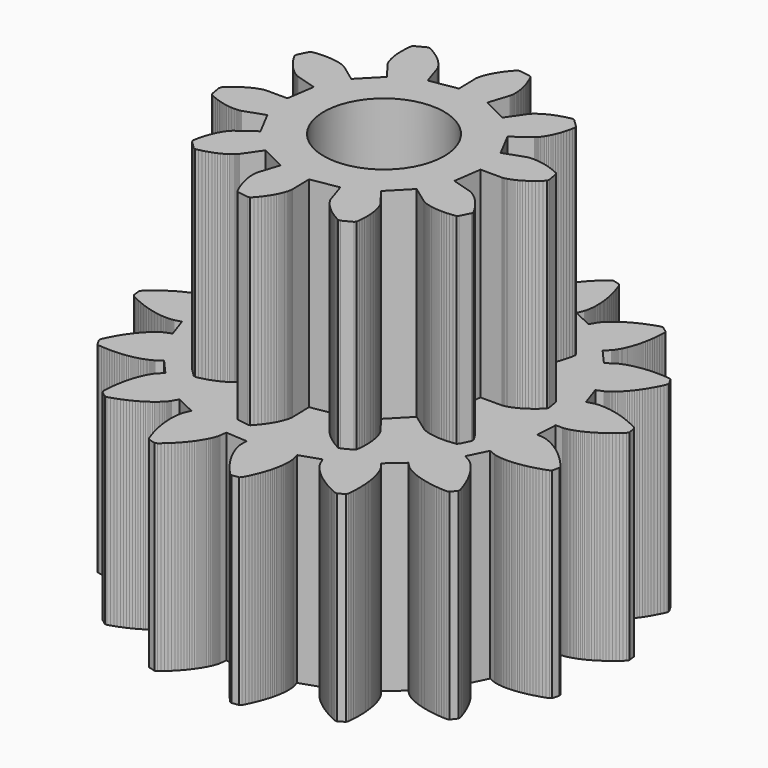
from build123d import *

# Parameters (mm, degrees)
F1_DEPTH = 10
F2_R     = 7.5
F3_DEPTH = 5.5
F5_DEPTH = 10
F6_R     = 3
F7_DEPTH = 20.001


with BuildPart() as f1:
    # F0 (on Top) → F1 (new body)
    with BuildSketch(Plane.XY):
        Polygon((8.496053, -1.064742), (8.562513, 0), (8.911433, 2e-05), (8.916954, 0.00018), (8.926694, 0.00068), (8.940654, 0.0017), (8.958794, 0.0034), (8.981134, 0.006), (9.007594, 0.00968), (9.038154, 0.0146), (9.072774, 0.02094), (9.111414, 0.0289), (9.153994, 0.03864), (9.200454, 0.05034), (9.250754, 0.06418), (9.304794, 0.08032), (9.362514, 0.09894), (9.423814, 0.1202), (9.488595, 0.14428), (9.556795, 0.17132), (9.628295, 0.2015), (9.702995, 0.23496), (9.780775, 0.27186), (9.861515, 0.31234), (9.945115, 0.35656), (10.031435, 0.40466), (10.120336, 0.45678), (10.211695, 0.51304), (10.305356, 0.573601), (10.401196, 0.638561), (10.499036, 0.708041), (10.598756, 0.782181), (10.700177, 0.861061), (10.803157, 0.944841), (10.907497, 1.033561), (11.013057, 1.127381), (11.119657, 1.226362), (11.171837, 1.324042), (11.123597, 1.681862), (11.047397, 1.762222), (10.918397, 1.829442), (10.791777, 1.891942), (10.667656, 1.949883), (10.546176, 2.003383), (10.427476, 2.052603), (10.311696, 2.097683), (10.198935, 2.138783), (10.089315, 2.176043), (9.982955, 2.209623), (9.879955, 2.239683), (9.780435, 2.266383), (9.684455, 2.289903), (9.592135, 2.310423), (9.503555, 2.328083), (9.418774, 2.343063), (9.337894, 2.355543), (9.260954, 2.365703), (9.188034, 2.373723), (9.119174, 2.379783), (9.054414, 2.384043), (8.993834, 2.386723), (8.937453, 2.387983), (8.885293, 2.388003), (8.837373, 2.386983), (8.793734, 2.385103), (8.754374, 2.382543), (8.719313, 2.379483), (8.688533, 2.376143), (8.662053, 2.372663), (8.639833, 2.369263), (8.621873, 2.366103), (8.608153, 2.363383), (8.598613, 2.361283), (8.593253, 2.359983), (8.256793, 2.267603), (7.910732, 3.276725), (8.233093, 3.410265), (8.238112, 3.412525), (8.246933, 3.416725), (8.259433, 3.423005), (8.275553, 3.431525), (8.295173, 3.442485), (8.318232, 3.455985), (8.344573, 3.472225), (8.374133, 3.491345), (8.406793, 3.513485), (8.442393, 3.538765), (8.480853, 3.567365), (8.522013, 3.599405), (8.565773, 3.634985), (8.611973, 3.674285), (8.660453, 3.717385), (8.711113, 3.764425), (8.763774, 3.815505), (8.818274, 3.870746), (8.874493, 3.930246), (8.932233, 3.994106), (8.991334, 4.062406), (9.051634, 4.135266), (9.112974, 4.212726), (9.175174, 4.294886), (9.238034, 4.381846), (9.301394, 4.473626), (9.365074, 4.570307), (9.428895, 4.671947), (9.492654, 4.778607), (9.556175, 4.890307), (9.619235, 5.007107), (9.681695, 5.129008), (9.743315, 5.256088), (9.803915, 5.388308), (9.814735, 5.498528), (9.633235, 5.810648), (9.532095, 5.855749), (9.387195, 5.868469), (9.246274, 5.877769), (9.109434, 5.883789), (8.976733, 5.886729), (8.848234, 5.886789), (8.724013, 5.884129), (8.604113, 5.878929), (8.488573, 5.871409), (8.377473, 5.861729), (8.270813, 5.850089), (8.168633, 5.836688), (8.070973, 5.821689), (7.977832, 5.805309), (7.889232, 5.787708), (7.805172, 5.769109), (7.725652, 5.749688), (7.650691, 5.729648), (7.580251, 5.709148), (7.514311, 5.688388), (7.452851, 5.667548), (7.395872, 5.646828), (7.343291, 5.626428), (7.295091, 5.606488), (7.251211, 5.587208), (7.211611, 5.568768), (7.176231, 5.551328), (7.145011, 5.535108), (7.117851, 5.520228), (7.094711, 5.506888), (7.075491, 5.495228), (7.060111, 5.485448), (7.048451, 5.477688), (7.040471, 5.472088), (7.036011, 5.468848), (6.760511, 5.254728), (6.054609, 6.054609), (6.30133, 6.301349), (6.305109, 6.305369), (6.31165, 6.312609), (6.32079, 6.323189), (6.33241, 6.337229), (6.34637, 6.354869), (6.36249, 6.376169), (6.38063, 6.401249), (6.400609, 6.43023), (6.42231, 6.463169), (6.44553, 6.50017), (6.47011, 6.54129), (6.49589, 6.58665), (6.52269, 6.63627), (6.55033, 6.69025), (6.57863, 6.74863), (6.60743, 6.81147), (6.63653, 6.87883), (6.66575, 6.950711), (6.69491, 7.02719), (6.72383, 7.108291), (6.75229, 7.194011), (6.78013, 7.284391), (6.807151, 7.379431), (6.83317, 7.479151), (6.85797, 7.583531), (6.88139, 7.692571), (6.903231, 7.806271), (6.923291, 7.924612), (6.94137, 8.047532), (6.95731, 8.175032), (6.970891, 8.307073), (6.981931, 8.443612), (6.990231, 8.584593), (6.995611, 8.729953), (6.963451, 8.835913), (6.67631, 9.054813), (6.56561, 9.057773), (6.42687, 9.014093), (6.293129, 8.968753), (6.164389, 8.921953), (6.040669, 8.873873), (5.921929, 8.824753), (5.808169, 8.774753), (5.699389, 8.724073), (5.595529, 8.672913), (5.496589, 8.621453), (5.402488, 8.569873), (5.313228, 8.518393), (5.228728, 8.467153), (5.148948, 8.416372), (5.073828, 8.366233), (5.003288, 8.316873), (4.937268, 8.268512), (4.875667, 8.221292), (4.818447, 8.175392), (4.765467, 8.130992), (4.716667, 8.088232), (4.671927, 8.047272), (4.631167, 8.008292), (4.594267, 7.971412), (4.561127, 7.936811), (4.531587, 7.904632), (4.505567, 7.874992), (4.482927, 7.848032), (4.463547, 7.823911), (4.447267, 7.802712), (4.433967, 7.784612), (4.423487, 7.769672), (4.415707, 7.758051), (4.410467, 7.749831), (4.407587, 7.745111), (4.235006, 7.441871), (3.276725, 7.910732), (3.410245, 8.233093), (3.412205, 8.238252), (3.415465, 8.247453), (3.419865, 8.260732), (3.425245, 8.278153), (3.431385, 8.299772), (3.438125, 8.325633), (3.445265, 8.355753), (3.452665, 8.390173), (3.460085, 8.428893), (3.467385, 8.471972), (3.474365, 8.519373), (3.480825, 8.571132), (3.486585, 8.627233), (3.491465, 8.687693), (3.495285, 8.752453), (3.497825, 8.821533), (3.498945, 8.894893), (3.498425, 8.972493), (3.496105, 9.054313), (3.491785, 9.140294), (3.485265, 9.230394), (3.476405, 9.324534), (3.465005, 9.422694), (3.450865, 9.524774), (3.433845, 9.630694), (3.413745, 9.740414), (3.390425, 9.853815), (3.363665, 9.970815), (3.333345, 10.091295), (3.299265, 10.215195), (3.261285, 10.342375), (3.219225, 10.472756), (3.172945, 10.606176), (3.122305, 10.742516), (3.052025, 10.828116), (2.702984, 10.920476), (2.599564, 10.880857), (2.488104, 10.787396), (2.381904, 10.694316), (2.280883, 10.601816), (2.184963, 10.510056), (2.094063, 10.419236), (2.008103, 10.329515), (1.926983, 10.241055), (1.850623, 10.154035), (1.778903, 10.068635), (1.711703, 9.984975), (1.648943, 9.903255), (1.590482, 9.823595), (1.536202, 9.746134), (1.485982, 9.671055), (1.439702, 9.598474), (1.397222, 9.528515), (1.358382, 9.461314), (1.323062, 9.397014), (1.291122, 9.335714), (1.262402, 9.277534), (1.236742, 9.222574), (1.214002, 9.170974), (1.194022, 9.122793), (1.176642, 9.078133), (1.161682, 9.037093), (1.148982, 8.999753), (1.138382, 8.966193), (1.129702, 8.936473), (1.122762, 8.910673), (1.117402, 8.888833), (1.113442, 8.871033), (1.110702, 8.857313), (1.109002, 8.847713), (1.108162, 8.842273), (1.064742, 8.496053), (0, 8.562513), (-2e-05, 8.911433), (-0.00018, 8.916954), (-0.00068, 8.926693), (-0.0017, 8.940654), (-0.0034, 8.958793), (-0.006, 8.981134), (-0.00968, 9.007593), (-0.0146, 9.038154), (-0.02094, 9.072774), (-0.0289, 9.111413), (-0.03864, 9.153994), (-0.05034, 9.200454), (-0.06418, 9.250754), (-0.08032, 9.304794), (-0.09894, 9.362514), (-0.1202, 9.423814), (-0.14428, 9.488594), (-0.17132, 9.556794), (-0.2015, 9.628294), (-0.23496, 9.702995), (-0.27186, 9.780775), (-0.31234, 9.861515), (-0.356561, 9.945114), (-0.404661, 10.031435), (-0.456781, 10.120335), (-0.513041, 10.211695), (-0.573601, 10.305355), (-0.638561, 10.401196), (-0.708041, 10.499035), (-0.782181, 10.598755), (-0.861061, 10.700176), (-0.944841, 10.803156), (-1.033562, 10.907496), (-1.127382, 11.013057), (-1.226362, 11.119657), (-1.324042, 11.171837), (-1.681863, 11.123597), (-1.762223, 11.047397), (-1.829443, 10.918396), (-1.891943, 10.791776), (-1.949883, 10.667656), (-2.003383, 10.546176), (-2.052603, 10.427475), (-2.097683, 10.311695), (-2.138783, 10.198935), (-2.176043, 10.089315), (-2.209623, 9.982955), (-2.239683, 9.879955), (-2.266383, 9.780435), (-2.289904, 9.684454), (-2.310424, 9.592135), (-2.328084, 9.503554), (-2.343064, 9.418774), (-2.355544, 9.337894), (-2.365704, 9.260954), (-2.373724, 9.188034), (-2.379784, 9.119173), (-2.384044, 9.054413), (-2.386724, 8.993834), (-2.387984, 8.937453), (-2.388004, 8.885293), (-2.386984, 8.837373), (-2.385104, 8.793733), (-2.382544, 8.754373), (-2.379484, 8.719313), (-2.376144, 8.688533), (-2.372664, 8.662053), (-2.369264, 8.639833), (-2.366104, 8.621873), (-2.363384, 8.608153), (-2.361284, 8.598613), (-2.359984, 8.593253), (-2.267604, 8.256793), (-3.276725, 7.910732), (-3.410265, 8.233093), (-3.412525, 8.238112), (-3.416725, 8.246932), (-3.423005, 8.259432), (-3.431525, 8.275552), (-3.442485, 8.295172), (-3.455985, 8.318232), (-3.472225, 8.344573), (-3.491345, 8.374133), (-3.513485, 8.406793), (-3.538765, 8.442392), (-3.567365, 8.480853), (-3.599405, 8.522013), (-3.634986, 8.565773), (-3.674286, 8.611973), (-3.717386, 8.660453), (-3.764426, 8.711113), (-3.815506, 8.763773), (-3.870746, 8.818273), (-3.930246, 8.874493), (-3.994106, 8.932233), (-4.062406, 8.991333), (-4.135266, 9.051633), (-4.212727, 9.112974), (-4.294886, 9.175174), (-4.381847, 9.238034), (-4.473627, 9.301394), (-4.570307, 9.365074), (-4.671947, 9.428894), (-4.778607, 9.492654), (-4.890307, 9.556174), (-5.007108, 9.619234), (-5.129008, 9.681695), (-5.256088, 9.743314), (-5.388308, 9.803915), (-5.498528, 9.814735), (-5.810649, 9.633234), (-5.855749, 9.532094), (-5.868469, 9.387194), (-5.877769, 9.246274), (-5.883789, 9.109434), (-5.886729, 8.976733), (-5.886789, 8.848233), (-5.884129, 8.724013), (-5.878929, 8.604113), (-5.871409, 8.488572), (-5.861729, 8.377472), (-5.850089, 8.270812), (-5.836689, 8.168632), (-5.821689, 8.070972), (-5.805309, 7.977832), (-5.787709, 7.889231), (-5.769109, 7.805171), (-5.749689, 7.725652), (-5.729649, 7.650691), (-5.709149, 7.580251), (-5.688389, 7.514311), (-5.667549, 7.452851), (-5.646829, 7.395871), (-5.626428, 7.343291), (-5.606489, 7.295091), (-5.587209, 7.251211), (-5.568768, 7.21161), (-5.551328, 7.176231), (-5.535109, 7.14501), (-5.520229, 7.11785), (-5.506889, 7.09471), (-5.495229, 7.07549), (-5.485448, 7.06011), (-5.477688, 7.04845), (-5.472088, 7.040471), (-5.468848, 7.03601), (-5.254728, 6.76051), (-6.054609, 6.054609), (-6.30135, 6.301329), (-6.30537, 6.305109), (-6.31261, 6.311649), (-6.32319, 6.320789), (-6.33723, 6.332409), (-6.35487, 6.346369), (-6.37617, 6.36249), (-6.40125, 6.380629), (-6.43023, 6.400609), (-6.46317, 6.422309), (-6.50017, 6.44553), (-6.54129, 6.470109), (-6.58665, 6.49589), (-6.63627, 6.52269), (-6.69025, 6.550329), (-6.74863, 6.57863), (-6.811471, 6.60743), (-6.878831, 6.636529), (-6.950711, 6.66575), (-7.02719, 6.69491), (-7.108291, 6.72383), (-7.194011, 6.75229), (-7.284391, 6.78013), (-7.379431, 6.80715), (-7.479151, 6.83317), (-7.583531, 6.85797), (-7.692572, 6.88139), (-7.806272, 6.903231), (-7.924612, 6.923291), (-8.047532, 6.94137), (-8.175032, 6.95731), (-8.307073, 6.97089), (-8.443613, 6.98193), (-8.584593, 6.99023), (-8.729953, 6.99561), (-8.835914, 6.96345), (-9.054813, 6.67631), (-9.057774, 6.56561), (-9.014094, 6.42687), (-8.968754, 6.293129), (-8.921953, 6.164389), (-8.873874, 6.040669), (-8.824753, 5.921929), (-8.774753, 5.808169), (-8.724073, 5.699388), (-8.672913, 5.595528), (-8.621453, 5.496588), (-8.569873, 5.402488), (-8.518393, 5.313228), (-8.467153, 5.228728), (-8.416373, 5.148947), (-8.366233, 5.073828), (-8.316873, 5.003287), (-8.268512, 4.937267), (-8.221292, 4.875667), (-8.175392, 4.818447), (-8.130992, 4.765467), (-8.088233, 4.716667), (-8.047273, 4.671927), (-8.008292, 4.631167), (-7.971412, 4.594267), (-7.936812, 4.561126), (-7.904632, 4.531587), (-7.874992, 4.505566), (-7.848032, 4.482927), (-7.823912, 4.463546), (-7.802712, 4.447266), (-7.784612, 4.433966), (-7.769672, 4.423486), (-7.758052, 4.415707), (-7.749832, 4.410466), (-7.745111, 4.407587), (-7.441872, 4.235006), (-7.910732, 3.276725), (-8.233093, 3.410245), (-8.238253, 3.412205), (-8.247453, 3.415465), (-8.260733, 3.419865), (-8.278153, 3.425245), (-8.299772, 3.431385), (-8.325633, 3.438125), (-8.355753, 3.445265), (-8.390173, 3.452665), (-8.428893, 3.460085), (-8.471973, 3.467385), (-8.519373, 3.474365), (-8.571133, 3.480825), (-8.627233, 3.486585), (-8.687693, 3.491465), (-8.752453, 3.495285), (-8.821534, 3.497825), (-8.894894, 3.498945), (-8.972494, 3.498425), (-9.054314, 3.496105), (-9.140294, 3.491785), (-9.230394, 3.485265), (-9.324534, 3.476405), (-9.422694, 3.465005), (-9.524774, 3.450865), (-9.630695, 3.433845), (-9.740415, 3.413745), (-9.853815, 3.390425), (-9.970815, 3.363665), (-10.091296, 3.333345), (-10.215196, 3.299265), (-10.342376, 3.261285), (-10.472756, 3.219225), (-10.606176, 3.172945), (-10.742517, 3.122304), (-10.828116, 3.052024), (-10.920476, 2.702984), (-10.880857, 2.599564), (-10.787397, 2.488104), (-10.694316, 2.381903), (-10.601816, 2.280883), (-10.510056, 2.184963), (-10.419236, 2.094063), (-10.329516, 2.008103), (-10.241056, 1.926983), (-10.154035, 1.850623), (-10.068636, 1.778902), (-9.984975, 1.711702), (-9.903255, 1.648942), (-9.823595, 1.590482), (-9.746135, 1.536202), (-9.671055, 1.485982), (-9.598474, 1.439702), (-9.528515, 1.397222), (-9.461314, 1.358382), (-9.397014, 1.323062), (-9.335714, 1.291122), (-9.277534, 1.262402), (-9.222574, 1.236742), (-9.170974, 1.214002), (-9.122794, 1.194021), (-9.078134, 1.176641), (-9.037093, 1.161681), (-8.999754, 1.148981), (-8.966193, 1.138381), (-8.936474, 1.129701), (-8.910673, 1.122761), (-8.888833, 1.117401), (-8.871033, 1.113441), (-8.857313, 1.110701), (-8.847713, 1.109001), (-8.842273, 1.108161), (-8.496053, 1.064741), (-8.562513, 0), (-8.911433, -2e-05), (-8.916954, -0.00018), (-8.926694, -0.00068), (-8.940654, -0.0017), (-8.958794, -0.0034), (-8.981134, -0.006), (-9.007594, -0.00968), (-9.038154, -0.0146), (-9.072774, -0.02094), (-9.111414, -0.0289), (-9.153994, -0.03864), (-9.200454, -0.05034), (-9.250754, -0.06418), (-9.304794, -0.08032), (-9.362514, -0.09894), (-9.423814, -0.120201), (-9.488595, -0.144281), (-9.556795, -0.171321), (-9.628295, -0.201501), (-9.702995, -0.234961), (-9.780775, -0.271861), (-9.861515, -0.312341), (-9.945115, -0.356561), (-10.031435, -0.404661), (-10.120336, -0.456781), (-10.211695, -0.513041), (-10.305356, -0.573601), (-10.401196, -0.638561), (-10.499036, -0.708041), (-10.598756, -0.782182), (-10.700177, -0.861062), (-10.803157, -0.944842), (-10.907497, -1.033562), (-11.013057, -1.127382), (-11.119657, -1.226362), (-11.171837, -1.324042), (-11.123597, -1.681863), (-11.047397, -1.762223), (-10.918397, -1.829443), (-10.791777, -1.891943), (-10.667656, -1.949883), (-10.546176, -2.003383), (-10.427476, -2.052603), (-10.311696, -2.097684), (-10.198935, -2.138784), (-10.089315, -2.176044), (-9.982955, -2.209624), (-9.879955, -2.239684), (-9.780435, -2.266384), (-9.684455, -2.289904), (-9.592135, -2.310424), (-9.503555, -2.328084), (-9.418774, -2.343064), (-9.337894, -2.355544), (-9.260954, -2.365704), (-9.188034, -2.373724), (-9.119174, -2.379784), (-9.054414, -2.384044), (-8.993834, -2.386724), (-8.937453, -2.387984), (-8.885293, -2.388004), (-8.837373, -2.386984), (-8.793734, -2.385104), (-8.754374, -2.382544), (-8.719313, -2.379484), (-8.688533, -2.376144), (-8.662053, -2.372664), (-8.639833, -2.369264), (-8.621873, -2.366104), (-8.608153, -2.363384), (-8.598613, -2.361284), (-8.593253, -2.359984), (-8.256793, -2.267604), (-7.910732, -3.276725), (-8.233093, -3.410266), (-8.238112, -3.412525), (-8.246933, -3.416725), (-8.259433, -3.423006), (-8.275553, -3.431526), (-8.295173, -3.442486), (-8.318232, -3.455986), (-8.344573, -3.472225), (-8.374133, -3.491346), (-8.406793, -3.513486), (-8.442393, -3.538766), (-8.480853, -3.567366), (-8.522013, -3.599406), (-8.565773, -3.634986), (-8.611973, -3.674286), (-8.660453, -3.717386), (-8.711113, -3.764426), (-8.763774, -3.815506), (-8.818274, -3.870746), (-8.874493, -3.930246), (-8.932233, -3.994107), (-8.991334, -4.062407), (-9.051634, -4.135267), (-9.112974, -4.212727), (-9.175174, -4.294887), (-9.238034, -4.381847), (-9.301394, -4.473627), (-9.365074, -4.570307), (-9.428895, -4.671947), (-9.492654, -4.778608), (-9.556175, -4.890308), (-9.619235, -5.007108), (-9.681695, -5.129008), (-9.743315, -5.256088), (-9.803915, -5.388309), (-9.814735, -5.498529), (-9.633235, -5.810649), (-9.532095, -5.855749), (-9.387195, -5.868469), (-9.246274, -5.877769), (-9.109434, -5.883789), (-8.976733, -5.886729), (-8.848234, -5.88679), (-8.724013, -5.88413), (-8.604113, -5.878929), (-8.488573, -5.871409), (-8.377473, -5.861729), (-8.270813, -5.850089), (-8.168633, -5.836689), (-8.070973, -5.821689), (-7.977832, -5.805309), (-7.889232, -5.787709), (-7.805172, -5.769109), (-7.725652, -5.749689), (-7.650691, -5.729649), (-7.580251, -5.709149), (-7.514311, -5.688389), (-7.452851, -5.667549), (-7.395872, -5.646829), (-7.343291, -5.626429), (-7.295091, -5.606489), (-7.251211, -5.587209), (-7.211611, -5.568769), (-7.176231, -5.551329), (-7.145011, -5.535109), (-7.117851, -5.520229), (-7.094711, -5.506889), (-7.075491, -5.495229), (-7.060111, -5.485449), (-7.048451, -5.477689), (-7.040471, -5.472089), (-7.036011, -5.468849), (-6.760511, -5.254728), (-6.054609, -6.05461), (-6.30133, -6.30135), (-6.305109, -6.30537), (-6.31165, -6.31261), (-6.32079, -6.32319), (-6.33241, -6.33723), (-6.34637, -6.35487), (-6.36249, -6.37617), (-6.38063, -6.40125), (-6.400609, -6.43023), (-6.42231, -6.46317), (-6.44553, -6.50017), (-6.47011, -6.541291), (-6.49589, -6.586651), (-6.52269, -6.636271), (-6.55033, -6.69025), (-6.57863, -6.74863), (-6.60743, -6.811471), (-6.63653, -6.878831), (-6.66575, -6.950711), (-6.69491, -7.027191), (-6.72383, -7.108291), (-6.75229, -7.194012), (-6.78013, -7.284392), (-6.807151, -7.379431), (-6.83317, -7.479151), (-6.85797, -7.583532), (-6.88139, -7.692572), (-6.903231, -7.806272), (-6.923291, -7.924613), (-6.94137, -8.047532), (-6.95731, -8.175033), (-6.970891, -8.307073), (-6.981931, -8.443613), (-6.990231, -8.584594), (-6.995611, -8.729954), (-6.963451, -8.835914), (-6.67631, -9.054814), (-6.56561, -9.057774), (-6.42687, -9.014094), (-6.293129, -8.968754), (-6.164389, -8.921954), (-6.040669, -8.873874), (-5.921929, -8.824754), (-5.808169, -8.774754), (-5.699389, -8.724074), (-5.595529, -8.672913), (-5.496589, -8.621454), (-5.402488, -8.569874), (-5.313228, -8.518393), (-5.228728, -8.467153), (-5.148948, -8.416373), (-5.073828, -8.366233), (-5.003288, -8.316873), (-4.937268, -8.268513), (-4.875667, -8.221293), (-4.818447, -8.175393), (-4.765467, -8.130993), (-4.716667, -8.088233), (-4.671927, -8.047273), (-4.631167, -8.008293), (-4.594267, -7.971412), (-4.561127, -7.936812), (-4.531587, -7.904633), (-4.505567, -7.874993), (-4.482927, -7.848033), (-4.463547, -7.823912), (-4.447267, -7.802712), (-4.433967, -7.784612), (-4.423487, -7.769672), (-4.415707, -7.758052), (-4.410467, -7.749832), (-4.407587, -7.745112), (-4.235006, -7.441872), (-3.276725, -7.910732), (-3.410245, -8.233093), (-3.412205, -8.238253), (-3.415465, -8.247453), (-3.419865, -8.260733), (-3.425245, -8.278153), (-3.431385, -8.299773), (-3.438125, -8.325633), (-3.445265, -8.355753), (-3.452665, -8.390174), (-3.460085, -8.428894), (-3.467385, -8.471973), (-3.474365, -8.519374), (-3.480825, -8.571133), (-3.486585, -8.627234), (-3.491465, -8.687694), (-3.495285, -8.752454), (-3.497825, -8.821534), (-3.498945, -8.894894), (-3.498425, -8.972494), (-3.496105, -9.054314), (-3.491785, -9.140294), (-3.485265, -9.230395), (-3.476405, -9.324535), (-3.465005, -9.422695), (-3.450865, -9.524775), (-3.433845, -9.630695), (-3.413745, -9.740415), (-3.390425, -9.853816), (-3.363665, -9.970816), (-3.333345, -10.091296), (-3.299265, -10.215196), (-3.261285, -10.342376), (-3.219225, -10.472757), (-3.172945, -10.606177), (-3.122305, -10.742517), (-3.052025, -10.828117), (-2.702984, -10.920477), (-2.599564, -10.880857), (-2.488104, -10.787397), (-2.381904, -10.694317), (-2.280883, -10.601816), (-2.184963, -10.510057), (-2.094063, -10.419236), (-2.008103, -10.329516), (-1.926983, -10.241056), (-1.850623, -10.154036), (-1.778903, -10.068636), (-1.711703, -9.984976), (-1.648943, -9.903256), (-1.590482, -9.823596), (-1.536202, -9.746135), (-1.485982, -9.671055), (-1.439702, -9.598475), (-1.397222, -9.528515), (-1.358382, -9.461315), (-1.323062, -9.397015), (-1.291122, -9.335715), (-1.262402, -9.277535), (-1.236742, -9.222575), (-1.214002, -9.170975), (-1.194022, -9.122794), (-1.176642, -9.078134), (-1.161682, -9.037094), (-1.148982, -8.999754), (-1.138382, -8.966194), (-1.129702, -8.936474), (-1.122762, -8.910674), (-1.117402, -8.888834), (-1.113442, -8.871034), (-1.110702, -8.857314), (-1.109002, -8.847714), (-1.108162, -8.842274), (-1.064742, -8.496054), (0, -8.562513), (2e-05, -8.911434), (0.00018, -8.916954), (0.00068, -8.926694), (0.0017, -8.940654), (0.0034, -8.958794), (0.006, -8.981134), (0.00968, -9.007594), (0.0146, -9.038154), (0.02094, -9.072774), (0.0289, -9.111414), (0.03864, -9.153995), (0.05034, -9.200455), (0.06418, -9.250755), (0.08032, -9.304794), (0.09894, -9.362515), (0.1202, -9.423815), (0.14428, -9.488595), (0.17132, -9.556795), (0.2015, -9.628295), (0.23496, -9.702995), (0.27186, -9.780775), (0.31234, -9.861515), (0.356561, -9.945115), (0.404661, -10.031436), (0.456781, -10.120336), (0.513041, -10.211696), (0.573601, -10.305356), (0.638561, -10.401196), (0.708041, -10.499036), (0.782181, -10.598756), (0.861061, -10.700177), (0.944841, -10.803157), (1.033562, -10.907497), (1.127382, -11.013057), (1.226362, -11.119658), (1.324042, -11.171837), (1.681863, -11.123598), (1.762223, -11.047397), (1.829443, -10.918397), (1.891943, -10.791777), (1.949883, -10.667657), (2.003383, -10.546177), (2.052603, -10.427476), (2.097683, -10.311696), (2.138783, -10.198936), (2.176043, -10.089316), (2.209623, -9.982956), (2.239683, -9.879955), (2.266383, -9.780435), (2.289904, -9.684455), (2.310424, -9.592135), (2.328084, -9.503555), (2.343064, -9.418775), (2.355544, -9.337895), (2.365704, -9.260954), (2.373724, -9.188035), (2.379784, -9.119174), (2.384044, -9.054414), (2.386724, -8.993834), (2.387984, -8.937454), (2.388004, -8.885294), (2.386984, -8.837373), (2.385104, -8.793734), (2.382544, -8.754374), (2.379484, -8.719314), (2.376144, -8.688534), (2.372664, -8.662054), (2.369264, -8.639834), (2.366104, -8.621873), (2.363384, -8.608153), (2.361284, -8.598613), (2.359984, -8.593254), (2.267604, -8.256793), (3.276725, -7.910732), (3.410265, -8.233093), (3.412525, -8.238113), (3.416725, -8.246933), (3.423005, -8.259433), (3.431525, -8.275553), (3.442485, -8.295173), (3.455985, -8.318233), (3.472225, -8.344573), (3.491345, -8.374133), (3.513485, -8.406793), (3.538765, -8.442393), (3.567365, -8.480854), (3.599405, -8.522013), (3.634986, -8.565773), (3.674286, -8.611973), (3.717386, -8.660454), (3.764426, -8.711114), (3.815506, -8.763774), (3.870746, -8.818274), (3.930246, -8.874494), (3.994106, -8.932234), (4.062406, -8.991334), (4.135266, -9.051634), (4.212727, -9.112974), (4.294886, -9.175175), (4.381847, -9.238035), (4.473627, -9.301395), (4.570307, -9.365074), (4.671947, -9.428895), (4.778607, -9.492655), (4.890307, -9.556175), (5.007108, -9.619235), (5.129008, -9.681695), (5.256088, -9.743315), (5.388308, -9.803915), (5.498528, -9.814735), (5.810649, -9.633235), (5.855749, -9.532095), (5.868469, -9.387195), (5.877769, -9.246275), (5.883789, -9.109434), (5.886729, -8.976734), (5.886789, -8.848234), (5.884129, -8.724013), (5.878929, -8.604114), (5.871409, -8.488573), (5.861729, -8.377473), (5.850089, -8.270813), (5.836689, -8.168633), (5.821689, -8.070973), (5.805309, -7.977832), (5.787709, -7.889232), (5.769109, -7.805172), (5.749689, -7.725652), (5.729649, -7.650692), (5.709149, -7.580252), (5.688389, -7.514312), (5.667549, -7.452851), (5.646829, -7.395872), (5.626428, -7.343292), (5.606489, -7.295091), (5.587209, -7.251212), (5.568768, -7.211611), (5.551328, -7.176231), (5.535109, -7.145011), (5.520229, -7.117851), (5.506889, -7.094711), (5.495229, -7.075491), (5.485448, -7.060111), (5.477688, -7.048451), (5.472088, -7.040471), (5.468848, -7.036011), (5.254728, -6.760511), (6.054609, -6.05461), (6.30135, -6.30133), (6.30537, -6.30511), (6.31261, -6.31165), (6.32319, -6.32079), (6.33723, -6.33241), (6.35487, -6.34637), (6.37617, -6.36249), (6.40125, -6.38063), (6.43023, -6.40061), (6.46317, -6.42231), (6.50017, -6.44553), (6.54129, -6.47011), (6.58665, -6.49589), (6.63627, -6.52269), (6.69025, -6.55033), (6.74863, -6.578631), (6.811471, -6.607431), (6.878831, -6.63653), (6.950711, -6.665751), (7.02719, -6.69491), (7.108291, -6.72383), (7.194011, -6.75229), (7.284391, -6.780131), (7.379431, -6.807151), (7.479151, -6.83317), (7.583531, -6.857971), (7.692572, -6.881391), (7.806272, -6.903231), (7.924612, -6.923291), (8.047532, -6.941371), (8.175032, -6.957311), (8.307073, -6.970891), (8.443613, -6.981931), (8.584593, -6.990231), (8.729953, -6.995611), (8.835914, -6.963451), (9.054813, -6.676311), (9.057774, -6.56561), (9.014094, -6.42687), (8.968754, -6.29313), (8.921953, -6.16439), (8.873874, -6.04067), (8.824753, -5.921929), (8.774753, -5.808169), (8.724073, -5.699389), (8.672913, -5.595529), (8.621453, -5.496589), (8.569873, -5.402489), (8.518393, -5.313228), (8.467153, -5.228728), (8.416373, -5.148948), (8.366233, -5.073828), (8.316873, -5.003288), (8.268512, -4.937268), (8.221292, -4.875668), (8.175392, -4.818448), (8.130992, -4.765467), (8.088233, -4.716667), (8.047273, -4.671927), (8.008292, -4.631167), (7.971412, -4.594267), (7.936812, -4.561127), (7.904632, -4.531587), (7.874992, -4.505567), (7.848032, -4.482927), (7.823912, -4.463547), (7.802712, -4.447267), (7.784612, -4.433967), (7.769672, -4.423487), (7.758052, -4.415707), (7.749832, -4.410467), (7.745111, -4.407587), (7.441872, -4.235007), (7.910732, -3.276725), (8.233093, -3.410246), (8.238253, -3.412206), (8.247453, -3.415465), (8.260733, -3.419866), (8.278153, -3.425246), (8.299772, -3.431386), (8.325633, -3.438125), (8.355753, -3.445265), (8.390173, -3.452666), (8.428893, -3.460086), (8.471973, -3.467386), (8.519373, -3.474366), (8.571133, -3.480826), (8.627233, -3.486586), (8.687693, -3.491466), (8.752453, -3.495286), (8.821534, -3.497826), (8.894894, -3.498946), (8.972494, -3.498426), (9.054314, -3.496106), (9.140294, -3.491786), (9.230394, -3.485266), (9.324534, -3.476406), (9.422694, -3.465006), (9.524774, -3.450865), (9.630695, -3.433846), (9.740415, -3.413746), (9.853815, -3.390426), (9.970815, -3.363666), (10.091296, -3.333346), (10.215196, -3.299265), (10.342376, -3.261285), (10.472756, -3.219225), (10.606176, -3.172945), (10.742517, -3.122305), (10.828116, -3.052025), (10.920476, -2.702985), (10.880857, -2.599564), (10.787397, -2.488104), (10.694316, -2.381904), (10.601816, -2.280884), (10.510056, -2.184964), (10.419236, -2.094063), (10.329516, -2.008103), (10.241056, -1.926983), (10.154035, -1.850623), (10.068636, -1.778903), (9.984975, -1.711703), (9.903255, -1.648943), (9.823595, -1.590483), (9.746135, -1.536203), (9.671055, -1.485983), (9.598474, -1.439703), (9.528515, -1.397223), (9.461314, -1.358382), (9.397014, -1.323062), (9.335714, -1.291122), (9.277534, -1.262402), (9.222574, -1.236742), (9.170974, -1.214002), (9.122794, -1.194022), (9.078134, -1.176642), (9.037093, -1.161682), (8.999754, -1.148982), (8.966193, -1.138382), (8.936474, -1.129702), (8.910673, -1.122762), (8.888833, -1.117402), (8.871033, -1.113442), (8.857313, -1.110702), (8.847713, -1.109002), (8.842273, -1.108162), align=None)
    extrude(amount=F1_DEPTH)

    # F2 (on Top) → F3 (cut)
    with BuildSketch(Plane.XY):
        Circle(F2_R)
    extrude(amount=F3_DEPTH, mode=Mode.SUBTRACT)

    # F4 (on face) → F5 (join)
    with BuildSketch(Plane.XY.offset(10)):
        Polygon((4.609707, -1.382302), (4.812507, 0), (5.873989, 2e-05), (5.881129, 0.00028), (5.895409, 0.0013), (5.916749, 0.00356), (5.945089, 0.00756), (5.980329, 0.0138), (6.022329, 0.02274), (6.070929, 0.03488), (6.125949, 0.05068), (6.187189, 0.0706), (6.25443, 0.0951), (6.32739, 0.1246), (6.405829, 0.15956), (6.48943, 0.20036), (6.57789, 0.2474), (6.67083, 0.301081), (6.76791, 0.361781), (6.868751, 0.429821), (6.972951, 0.505541), (7.080071, 0.589261), (7.189691, 0.681281), (7.301351, 0.781841), (7.414571, 0.891221), (7.433472, 0.996822), (7.344991, 1.517042), (7.292231, 1.610463), (7.149211, 1.676243), (7.010571, 1.734243), (6.87671, 1.784823), (6.74791, 1.828423), (6.62455, 1.865443), (6.50689, 1.896323), (6.39519, 1.921483), (6.28973, 1.941423), (6.190689, 1.956583), (6.098309, 1.967443), (6.012729, 1.974503), (5.934089, 1.978203), (5.862549, 1.979103), (5.798169, 1.977643), (5.741009, 1.974363), (5.691129, 1.969763), (5.648549, 1.964323), (5.613228, 1.958543), (5.585148, 1.952963), (5.564269, 1.948043), (5.550448, 1.944283), (5.543609, 1.942163), (4.541827, 1.591203), (3.893406, 2.828725), (4.752147, 3.452646), (4.757767, 3.457065), (4.768727, 3.466285), (4.784667, 3.480665), (4.805227, 3.500565), (4.830067, 3.526325), (4.858787, 3.558246), (4.890967, 3.596626), (4.926208, 3.641746), (4.964028, 3.693866), (5.004028, 3.753206), (5.045728, 3.819966), (5.088648, 3.894346), (5.132308, 3.976486), (5.176208, 4.066526), (5.219828, 4.164606), (5.262708, 4.270767), (5.304288, 4.385087), (5.344068, 4.507587), (5.381528, 4.638287), (5.416128, 4.777167), (5.447368, 4.924148), (5.474668, 5.079188), (5.427888, 5.175728), (5.050528, 5.544589), (4.952928, 5.589169), (4.798547, 5.558309), (4.652307, 5.523749), (4.514267, 5.485988), (4.384467, 5.445548), (4.262886, 5.402988), (4.149546, 5.358808), (4.044386, 5.313528), (3.947346, 5.267648), (3.858326, 5.221708), (3.777186, 5.176188), (3.703826, 5.131588), (3.638026, 5.088388), (3.579606, 5.047048), (3.528385, 5.008028), (3.484065, 4.971768), (3.446425, 4.938728), (3.415165, 4.909288), (3.389985, 4.883868), (3.370565, 4.862847), (3.356565, 4.846588), (3.347585, 4.835427), (3.343305, 4.829708), (2.739124, 3.956946), (1.487142, 4.576967), (1.815143, 5.586489), (1.817103, 5.593369), (1.820543, 5.607269), (1.824983, 5.628269), (1.829943, 5.656469), (1.834903, 5.691889), (1.839363, 5.734589), (1.842843, 5.784569), (1.844823, 5.841789), (1.844803, 5.906189), (1.842283, 5.977689), (1.836763, 6.056209), (1.827763, 6.14161), (1.814803, 6.23373), (1.797383, 6.33239), (1.775043, 6.43737), (1.747323, 6.54847), (1.713783, 6.66539), (1.673962, 6.78789), (1.627443, 6.915651), (1.573802, 7.048331), (1.512662, 7.185611), (1.443622, 7.327091), (1.349022, 7.377692), (0.826921, 7.454292), (0.721781, 7.432992), (0.615021, 7.317291), (0.517021, 7.203371), (0.427541, 7.091671), (0.346281, 6.982671), (0.27296, 6.876771), (0.20724, 6.774411), (0.14878, 6.67597), (0.09722, 6.58181), (0.0522, 6.49231), (0.01332, 6.40781), (-0.01982, 6.32859), (-0.04766, 6.25497), (-0.0706, 6.18719), (-0.08912, 6.12551), (-0.10366, 6.070129), (-0.1147, 6.021269), (-0.12268, 5.979089), (-0.1281, 5.943729), (-0.13146, 5.915289), (-0.13324, 5.893909), (-0.13394, 5.879609), (-0.13404, 5.872449), (-0.10982, 4.811247), (-1.487142, 4.576967), (-1.815163, 5.586489), (-1.817643, 5.593209), (-1.823023, 5.606469), (-1.831763, 5.626069), (-1.844343, 5.651789), (-1.861143, 5.683369), (-1.882643, 5.720529), (-1.909203, 5.763009), (-1.941223, 5.810449), (-1.979103, 5.862549), (-2.023163, 5.918929), (-2.073783, 5.979209), (-2.131263, 6.043009), (-2.195883, 6.109909), (-2.267963, 6.17949), (-2.347744, 6.251289), (-2.435464, 6.32487), (-2.531344, 6.39975), (-2.635564, 6.47545), (-2.748284, 6.55145), (-2.869664, 6.62727), (-2.999825, 6.702391), (-3.138825, 6.776291), (-3.245105, 6.76161), (-3.712526, 6.51671), (-3.785066, 6.43767), (-3.803426, 6.28131), (-3.815746, 6.131549), (-3.822486, 5.988589), (-3.824166, 5.852629), (-3.821246, 5.723869), (-3.814246, 5.602429), (-3.803666, 5.488408), (-3.790046, 5.381948), (-3.773846, 5.283088), (-3.755626, 5.191848), (-3.735886, 5.108288), (-3.715126, 5.032368), (-3.693866, 4.964028), (-3.672586, 4.903247), (-3.651806, 4.849908), (-3.632006, 4.803908), (-3.613666, 4.765067), (-3.597265, 4.733267), (-3.583286, 4.708307), (-3.572146, 4.689947), (-3.564306, 4.677987), (-3.560185, 4.672127), (-2.916844, 3.827826), (-3.893406, 2.828725), (-4.752167, 3.452625), (-4.758107, 3.456625), (-4.770247, 3.464185), (-4.788847, 3.474905), (-4.814127, 3.488326), (-4.846308, 3.503985), (-4.885528, 3.521425), (-4.931988, 3.540166), (-4.985788, 3.559725), (-5.047048, 3.579606), (-5.115828, 3.599325), (-5.192208, 3.618346), (-5.276208, 3.636166), (-5.367828, 3.652306), (-5.467028, 3.666226), (-5.573789, 3.677426), (-5.688009, 3.685386), (-5.809589, 3.689626), (-5.938389, 3.689606), (-6.074269, 3.684826), (-6.21703, 3.674826), (-6.36647, 3.659106), (-6.52237, 3.637166), (-6.59973, 3.562826), (-6.83391, 3.089965), (-6.846151, 2.983365), (-6.769111, 2.846084), (-6.69103, 2.717684), (-6.61247, 2.598064), (-6.53391, 2.487104), (-6.45585, 2.384644), (-6.37881, 2.290504), (-6.303249, 2.204483), (-6.229629, 2.126363), (-6.15843, 2.055883), (-6.090069, 1.992803), (-6.024969, 1.936783), (-5.963549, 1.887563), (-5.906189, 1.844803), (-5.853249, 1.808123), (-5.805069, 1.777183), (-5.762009, 1.751603), (-5.724369, 1.730963), (-5.692409, 1.714883), (-5.666409, 1.702903), (-5.646609, 1.694603), (-5.633229, 1.689523), (-5.626449, 1.687203), (-4.609707, 1.382302), (-4.812507, 0), (-5.873989, -2e-05), (-5.881129, -0.00028), (-5.895409, -0.0013), (-5.916749, -0.00356), (-5.945089, -0.00756), (-5.980329, -0.0138), (-6.022329, -0.02274), (-6.070929, -0.03488), (-6.125949, -0.05068), (-6.187189, -0.0706), (-6.25443, -0.0951), (-6.32739, -0.1246), (-6.405829, -0.15956), (-6.48943, -0.20036), (-6.57789, -0.2474), (-6.67083, -0.30108), (-6.76791, -0.36178), (-6.868751, -0.429821), (-6.972951, -0.505541), (-7.080071, -0.589261), (-7.189691, -0.681281), (-7.301351, -0.781841), (-7.414571, -0.891221), (-7.433472, -0.996821), (-7.344991, -1.517042), (-7.292231, -1.610462), (-7.149211, -1.676242), (-7.010571, -1.734243), (-6.87671, -1.784823), (-6.74791, -1.828423), (-6.62455, -1.865443), (-6.50689, -1.896323), (-6.39519, -1.921483), (-6.28973, -1.941423), (-6.190689, -1.956583), (-6.098309, -1.967443), (-6.012729, -1.974503), (-5.934089, -1.978203), (-5.862549, -1.979103), (-5.798169, -1.977643), (-5.741009, -1.974363), (-5.691129, -1.969763), (-5.648549, -1.964323), (-5.613228, -1.958543), (-5.585148, -1.952963), (-5.564269, -1.948043), (-5.550448, -1.944283), (-5.543609, -1.942163), (-4.541827, -1.591202), (-3.893406, -2.828724), (-4.752147, -3.452645), (-4.757767, -3.457065), (-4.768727, -3.466285), (-4.784667, -3.480665), (-4.805227, -3.500565), (-4.830067, -3.526325), (-4.858787, -3.558245), (-4.890967, -3.596626), (-4.926208, -3.641745), (-4.964028, -3.693865), (-5.004028, -3.753206), (-5.045728, -3.819966), (-5.088648, -3.894346), (-5.132308, -3.976486), (-5.176208, -4.066526), (-5.219828, -4.164606), (-5.262708, -4.270766), (-5.304288, -4.385087), (-5.344068, -4.507587), (-5.381528, -4.638287), (-5.416128, -4.777167), (-5.447368, -4.924148), (-5.474668, -5.079188), (-5.427888, -5.175728), (-5.050528, -5.544588), (-4.952928, -5.589169), (-4.798547, -5.558308), (-4.652307, -5.523748), (-4.514267, -5.485988), (-4.384467, -5.445548), (-4.262886, -5.402988), (-4.149546, -5.358808), (-4.044386, -5.313528), (-3.947346, -5.267648), (-3.858326, -5.221708), (-3.777186, -5.176188), (-3.703826, -5.131588), (-3.638026, -5.088388), (-3.579606, -5.047048), (-3.528385, -5.008028), (-3.484065, -4.971768), (-3.446425, -4.938727), (-3.415165, -4.909287), (-3.389985, -4.883867), (-3.370565, -4.862847), (-3.356565, -4.846587), (-3.347585, -4.835427), (-3.343305, -4.829707), (-2.739124, -3.956946), (-1.487142, -4.576967), (-1.815143, -5.586488), (-1.817103, -5.593369), (-1.820543, -5.607269), (-1.824983, -5.628269), (-1.829943, -5.656469), (-1.834903, -5.691889), (-1.839363, -5.734589), (-1.842843, -5.784569), (-1.844823, -5.841789), (-1.844803, -5.906189), (-1.842283, -5.977689), (-1.836763, -6.056209), (-1.827763, -6.141609), (-1.814803, -6.233729), (-1.797383, -6.332389), (-1.775043, -6.437369), (-1.747323, -6.54847), (-1.713783, -6.66539), (-1.673962, -6.78789), (-1.627443, -6.915651), (-1.573802, -7.048331), (-1.512662, -7.185611), (-1.443622, -7.327091), (-1.349022, -7.377691), (-0.826921, -7.454291), (-0.721781, -7.432992), (-0.615021, -7.317291), (-0.517021, -7.203371), (-0.427541, -7.091671), (-0.346281, -6.98267), (-0.27296, -6.876771), (-0.20724, -6.774411), (-0.14878, -6.67597), (-0.09722, -6.58181), (-0.0522, -6.492309), (-0.01332, -6.40781), (0.01982, -6.32859), (0.04766, -6.254969), (0.0706, -6.187189), (0.08912, -6.125509), (0.10366, -6.070129), (0.1147, -6.021269), (0.12268, -5.979089), (0.1281, -5.943729), (0.13146, -5.915289), (0.13324, -5.893909), (0.13394, -5.879609), (0.13404, -5.872449), (0.10982, -4.811247), (1.487142, -4.576967), (1.815163, -5.586488), (1.817643, -5.593208), (1.823023, -5.606469), (1.831763, -5.626069), (1.844343, -5.651788), (1.861143, -5.683368), (1.882643, -5.720529), (1.909203, -5.763009), (1.941223, -5.810449), (1.979103, -5.862549), (2.023163, -5.918929), (2.073783, -5.979209), (2.131263, -6.043009), (2.195883, -6.109909), (2.267963, -6.179489), (2.347744, -6.251289), (2.435464, -6.32487), (2.531344, -6.39975), (2.635564, -6.47545), (2.748284, -6.55145), (2.869664, -6.62727), (2.999825, -6.702391), (3.138825, -6.77629), (3.245105, -6.76161), (3.712526, -6.51671), (3.785066, -6.43767), (3.803426, -6.281309), (3.815746, -6.131549), (3.822486, -5.988589), (3.824166, -5.852629), (3.821246, -5.723869), (3.814246, -5.602428), (3.803666, -5.488408), (3.790046, -5.381948), (3.773846, -5.283088), (3.755626, -5.191848), (3.735886, -5.108288), (3.715126, -5.032368), (3.693866, -4.964028), (3.672586, -4.903247), (3.651806, -4.849907), (3.632006, -4.803907), (3.613666, -4.765067), (3.597265, -4.733267), (3.583286, -4.708307), (3.572146, -4.689947), (3.564306, -4.677987), (3.560185, -4.672127), (2.916844, -3.827826), (3.893406, -2.828724), (4.752167, -3.452625), (4.758107, -3.456625), (4.770247, -3.464185), (4.788847, -3.474905), (4.814127, -3.488325), (4.846308, -3.503985), (4.885528, -3.521425), (4.931988, -3.540165), (4.985788, -3.559725), (5.047048, -3.579606), (5.115828, -3.599325), (5.192208, -3.618345), (5.276208, -3.636165), (5.367828, -3.652305), (5.467028, -3.666226), (5.573789, -3.677426), (5.688009, -3.685386), (5.809589, -3.689625), (5.938389, -3.689606), (6.074269, -3.684826), (6.21703, -3.674825), (6.36647, -3.659105), (6.52237, -3.637166), (6.59973, -3.562825), (6.83391, -3.089965), (6.846151, -2.983364), (6.769111, -2.846084), (6.69103, -2.717684), (6.61247, -2.598064), (6.53391, -2.487104), (6.45585, -2.384643), (6.37881, -2.290503), (6.303249, -2.204483), (6.229629, -2.126363), (6.15843, -2.055883), (6.090069, -1.992803), (6.024969, -1.936783), (5.963549, -1.887563), (5.906189, -1.844803), (5.853249, -1.808123), (5.805069, -1.777183), (5.762009, -1.751603), (5.724369, -1.730963), (5.692409, -1.714883), (5.666409, -1.702902), (5.646609, -1.694602), (5.633229, -1.689523), (5.626449, -1.687202), align=None)
    extrude(amount=F5_DEPTH)

    # F6 (on Top) → F7 (cut, through all)
    with BuildSketch(Plane.XY):
        Circle(F6_R)
    extrude(amount=F7_DEPTH, mode=Mode.SUBTRACT)


solid = f1.part
